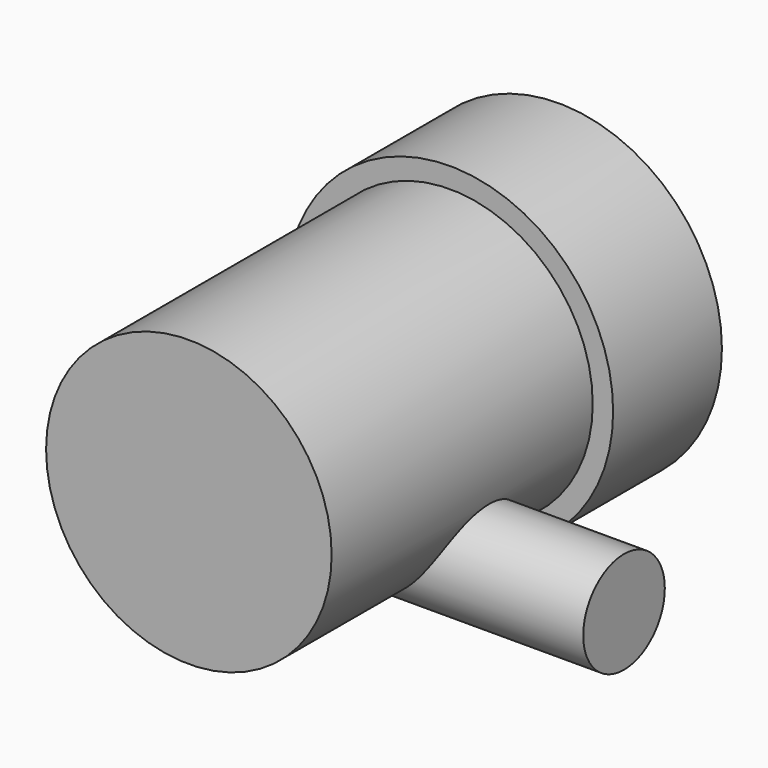
from build123d import *

# Parameters (mm, degrees)
F0_R     = 30.48
F1_DEPTH = 25.4
F2_R     = 26.67
F3_DEPTH = 60.96
F4_R     = 9.525
F5_DEPTH = 50.8


with BuildPart() as f1:
    # F0 (on Front) → F1 (new body)
    with BuildSketch(Plane.XZ):
        Circle(F0_R)
    extrude(amount=F1_DEPTH)

    # F2 (on face) → F3 (join)
    with BuildSketch(Plane.XZ.offset(25.4)):
        Circle(F2_R)
    extrude(amount=F3_DEPTH)

    # F4 (on Right) → F5 (join)
    with BuildSketch(Plane.YZ):
        with Locations((-48.26, -17.042583)):
            Circle(F4_R)
    extrude(amount=F5_DEPTH)


solid = f1.part
